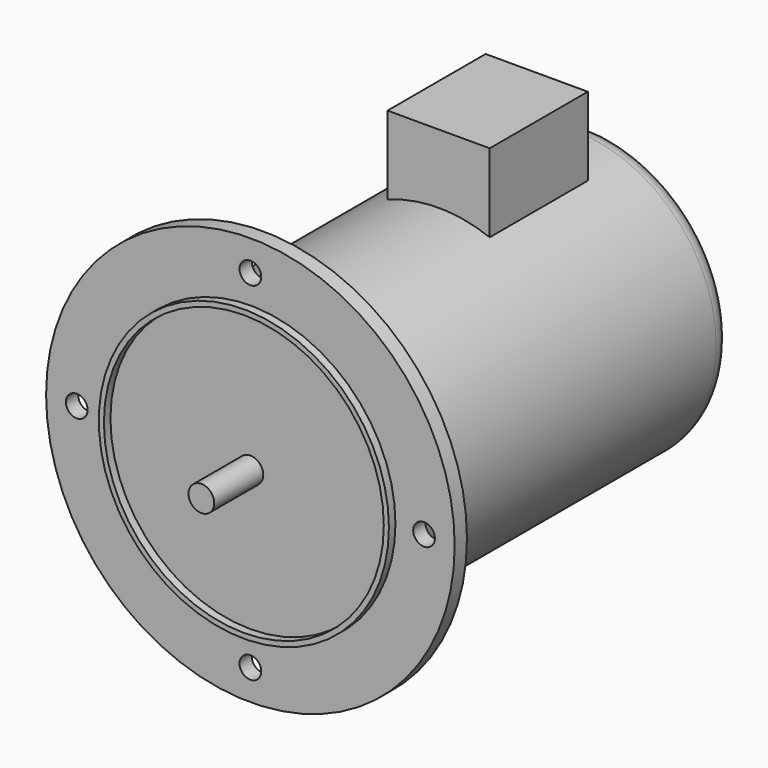
from build123d import *

# Parameters (mm, degrees)
F0_R      = 127
F1_DEPTH  = 9.525
F2_R      = 88.9
F3_DEPTH  = 254
F5_W      = 63.5
F5_H      = 76.2
F6_DEPTH  = 76.2
F7_R      = 6.74624
F8_DEPTH  = 25.4
F9_R      = 12.7
F10_R     = 90.17
F10_R_2   = 86.995
F11_DEPTH = 5.08
F12_R     = 8.001
F13_DEPTH = 38.1


with BuildPart() as f1:
    # F0 (on Front) → F1 (new body)
    with BuildSketch(Plane.XZ):
        Circle(F0_R)
    extrude(amount=-F1_DEPTH)

    # F2 (on face) → F3 (join)
    with BuildSketch(Plane(origin=(0, 9.525, 0), x_dir=(-1, 0, 0), z_dir=(0, 1, 0))):
        with Locations((0, -4.739449)):
            Circle(F2_R)
    extrude(amount=F3_DEPTH)

    # F5 (on offset) → F6 (join)
    with BuildSketch(Plane.XY.offset(127)):
        with Locations((0, 184.363604)):
            Rectangle(F5_W, F5_H)
    extrude(amount=-F6_DEPTH)

    # F7 (on face) → F8 (cut)
    with BuildSketch(Plane.XZ):
        with Locations((107.95, 0)):
            Circle(F7_R)
        with Locations((0, 107.95)):
            Circle(F7_R)
        with Locations((-107.95, 0)):
            Circle(F7_R)
        with Locations((0, -107.95)):
            Circle(F7_R)
    extrude(amount=-F8_DEPTH, mode=Mode.SUBTRACT)

    # F9
    f9_edges = [f1.edges().sort_by_distance(p)[0] for p in [
        (88.9, 263.525, -4.739449),
    ]]
    fillet(f9_edges, radius=F9_R)

    # F10 (on face) → F11 (join)
    with BuildSketch(Plane.XZ):
        Circle(F10_R)
        Circle(F10_R_2, mode=Mode.SUBTRACT)
    extrude(amount=F11_DEPTH)

    # F12 (on face) → F13 (join)
    with BuildSketch(Plane.XZ):
        Circle(F12_R)
    extrude(amount=F13_DEPTH)


solid = f1.part
